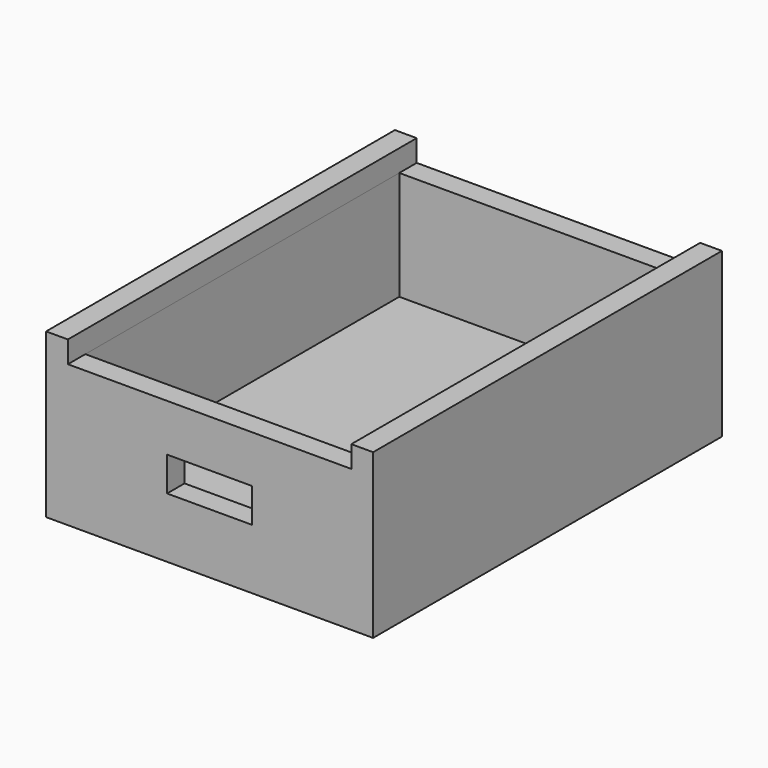
from build123d import *

# Parameters (mm, degrees)
F0_W     = 66.04
F0_H     = 27.94
F1_DEPTH = 101.6
F2_W     = 66.040002
F2_H     = 91.44
F3_DEPTH = 25.4
F4_W     = 19.812
F4_H     = 7.9756
F5_DEPTH = 12.7


with BuildPart() as f1:
    # F0 (on Front) → F1 (new body)
    with BuildSketch(Plane.XZ):
        Polygon((-38.1, 0), (-33.02, 0), (-33.02, 5.08), (-33.02, 33.02), (-33.02, 38.1), (-38.1, 38.1), align=None)
        Polygon((-33.02, 0), (0, 0), (33.02, 0), (33.02, 5.08), (-33.02, 5.08), align=None)
        Polygon((33.02, 5.08), (33.02, 0), (38.1, 0), (38.1, 38.1), (33.02, 38.1), (33.02, 33.02), align=None)
        with Locations((0, 19.05)):
            Rectangle(F0_W, F0_H)
    extrude(amount=F1_DEPTH)

    # F2 (on face) → F3 (cut)
    with BuildSketch(Plane.XY.offset(33.02)):
        with Locations((0, -50.8)):
            Rectangle(F2_W, F2_H)
    extrude(amount=-F3_DEPTH, mode=Mode.SUBTRACT)

    # F4 (on face) → F5 (cut)
    with BuildSketch(Plane.XZ.offset(101.6)):
        with Locations((0, 18.008964)):
            Rectangle(F4_W, F4_H)
    extrude(amount=-F5_DEPTH, mode=Mode.SUBTRACT)


solid = f1.part
